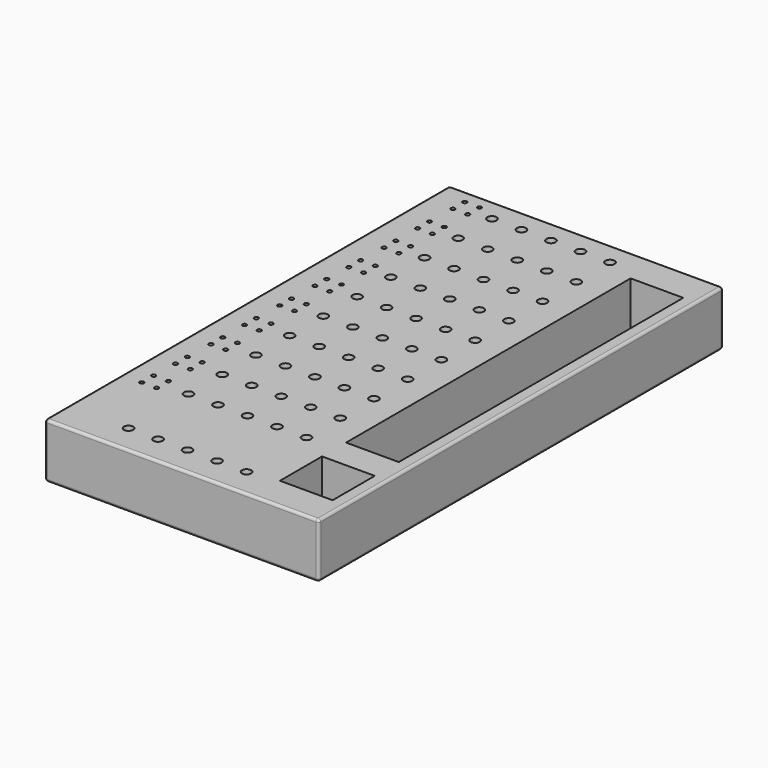
from build123d import *

# Parameters (mm, degrees)
F0_W     = 165.1
F0_H     = 304.8
F1_DEPTH = 33.02
F2_R     = 1.5875
F4_D     = 5.5
F4_DEPTH = 19.05
F4_TIP   = 1.6523667023
F5_D     = 2.5
F5_DEPTH = 19.05
F5_TIP   = 0.7510757738
F7_D     = 5.5
F7_DEPTH = 19.05
F7_TIP   = 1.6523667023
F8_W     = 31.75
F8_H     = 214.3332171281
F8_H_2   = 31.75
F9_DEPTH = 30.48


with BuildPart() as f1:
    # F0 (on Top) → F1 (new body)
    with BuildSketch(Plane.XY):
        with Locations((-82.55, 72.3846652712)):
            Rectangle(F0_W, F0_H)
    extrude(amount=-F1_DEPTH)

    # F2
    f2_edges = [f1.edges().sort_by_distance(p)[0] for p in [
        (0, -80.015335, -16.51),
        (0, 224.784665, -16.51),
        (0, 72.384665, 0),
        (0, 72.384665, -33.02),
        (-165.1, -80.015335, -16.51),
        (-82.55, -80.015335, 0),
        (-82.55, -80.015335, -33.02),
        (-165.1, 224.784665, -16.51),
        (-165.1, 72.384665, 0),
        (-165.1, 72.384665, -33.02),
        (-82.55, 224.784665, 0),
        (-82.55, 224.784665, -33.02),
    ]]
    fillet(f2_edges, radius=F2_R)

    # F4
    with Locations(Plane.XY):
        with Locations((-92.6738091326, 185.4199986613), (-92.6738091326, 33.0199986613), (-57.1138091326, 210.8199986613), (-74.8938091326, 58.4199986613), (-57.1138091326, -17.7800013387), (-128.2338091326, 134.6199986613), (-92.6738091326, 7.6199986613), (-57.1138091326, 160.0199986613), (-74.8938091326, 7.6199986613), (-110.4538091326, 109.2199986613), (-128.2338091326, 109.2199986613), (-128.2338091326, 83.8199986613), (-92.6738091326, -17.7800013387), (-110.4538091326, 7.6199986613), (-74.8938091326, 185.4199986613), (-57.1138091326, 134.6199986613), (-92.6738091326, 160.0199986613), (-74.8938091326, 160.0199986613), (-57.1138091326, 58.4199986613), (-74.8938091326, -17.7800013387), (-110.4538091326, 83.8199986613), (-110.4538091326, 33.0199986613), (-92.6738091326, 83.8199986613), (-110.4538091326, 160.0199986613), (-128.2338091326, 7.6199986613), (-128.2338091326, 185.4199986613), (-74.8938091326, 210.8199986613), (-128.2338091326, 160.0199986613), (-57.1138091326, 83.8199986613), (-92.6738091326, 58.4199986613), (-128.2338091326, -17.7800013387), (-110.4538091326, -17.7800013387), (-110.4538091326, 58.4199986613), (-92.6738091326, 210.8199986613), (-57.1138091326, 109.2199986613), (-74.8938091326, 134.6199986613), (-57.1138091326, 33.0199986613), (-74.8938091326, 109.2199986613), (-128.2338091326, 58.4199986613), (-110.4538091326, 210.8199986613), (-92.6738091326, 134.6199986613), (-110.4538091326, 134.6199986613), (-74.8938091326, 33.0199986613), (-57.1138091326, 185.4199986613), (-74.8938091326, 83.8199986613), (-57.1138091326, 7.6199986613), (-128.2338091326, 33.0199986613), (-128.2338091326, 210.8199986613), (-110.4538091326, 185.4199986613), (-92.6738091326, 109.2199986613)):
            Hole(F4_D / 2, depth=F4_DEPTH)
            with Locations((0, 0, -(F4_DEPTH + F4_TIP / 2))):  # 118° drill point
                Cone(0, F4_D / 2, F4_TIP, mode=Mode.SUBTRACT)

    # F5
    with Locations(Plane.XY):
        with Locations((-150.5762338202, 114.2900801023), (-142.7612522132, 37.2540049346), (-142.1475180871, 79.4719602958), (-141.1781826067, 139.1390168548), (-143.8260704136, -22.3520016933), (-140.5644484806, 181.356972216), (-152.7160704136, -22.3520016933), (-151.0375180871, 79.4719602958), (-150.0681826067, 130.2490168548), (-152.7160704136, -13.4620016933), (-151.0375180871, 88.3619602958), (-150.0681826067, 139.1390168548), (-142.7612522132, 28.3640049346), (-151.6512522132, 37.2540049346), (-141.6862338202, 105.4000801023), (-151.594285074, 62.4948904204), (-141.1781826067, 130.2490168548), (-140.0076814938, 216.1140420914), (-141.6862338202, 114.2900801023), (-143.3180192001, 11.3869350592), (-143.3180192001, 2.4969350592), (-151.6512522132, 28.3640049346), (-142.704285074, 53.6048904204), (-150.5762338202, 105.4000801023), (-152.2080192001, 2.4969350592), (-149.5114156199, 156.1160867301), (-149.4544484806, 190.246972216), (-149.4544484806, 181.356972216), (-148.8976814938, 216.1140420914), (-148.8976814938, 207.2240420914), (-140.0076814938, 207.2240420914), (-152.2080192001, 11.3869350592), (-142.704285074, 62.4948904204), (-149.5114156199, 165.0060867301), (-140.6214156199, 165.0060867301), (-140.6214156199, 156.1160867301), (-151.594285074, 53.6048904204), (-140.5644484806, 190.246972216), (-142.1475180871, 88.3619602958), (-143.8260704136, -13.4620016933)):
            Hole(F5_D / 2, depth=F5_DEPTH)
            with Locations((0, 0, -(F5_DEPTH + F5_TIP / 2))):  # 118° drill point
                Cone(0, F5_D / 2, F5_TIP, mode=Mode.SUBTRACT)

    # F7
    with Locations(Plane.XY):
        with Locations((-57.3105006266, -62.6894533634), (-128.4305006266, -62.6894533634), (-75.0905006266, -62.6894533634), (-110.6505006266, -62.6894533634), (-92.8705006266, -62.6894533634)):
            Hole(F7_D / 2, depth=F7_DEPTH)
            with Locations((0, 0, -(F7_DEPTH + F7_TIP / 2))):  # 118° drill point
                Cone(0, F7_D / 2, F7_TIP, mode=Mode.SUBTRACT)

    # F8 (on face) → F9 (cut)
    with BuildSketch(Plane.XY):
        with Locations((-23.4950003624, 97.0066085006)):
            Rectangle(F8_W, F8_H)
        with Locations((-23.500946798, -44.0972377956)):
            Rectangle(F8_W, F8_H_2)
    extrude(amount=-F9_DEPTH, mode=Mode.SUBTRACT)


solid = f1.part
